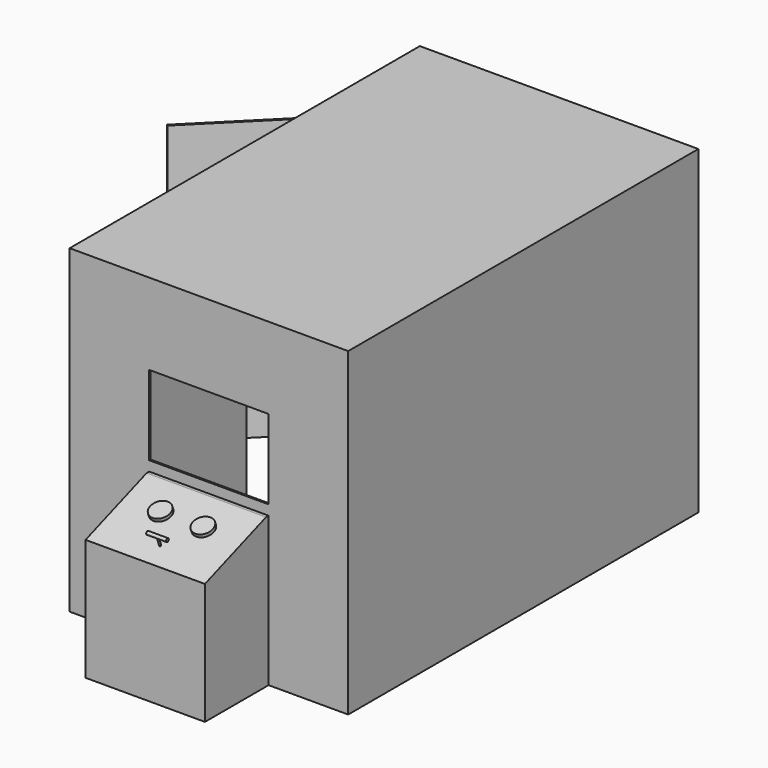
from build123d import *

# Parameters (mm, degrees)
F0_W      = 2133.6
F0_H      = 3352.8
F0_W_2    = 2108.2
F0_H_2    = 3327.4
F1_DEPTH  = 2438.4
F2_W      = 1320.8
F2_H      = 2133.6
F3_DEPTH  = 6.35
F4_W      = 1320.8
F4_H      = 2133.6
F5_DEPTH  = 25.4
F7_DEPTH  = 2133.6
F8_W      = 914.4
F8_H      = 609.6
F9_DEPTH  = 25.4
F10_W     = 914.4
F10_H     = 1143
F11_DEPTH = 609.6
F13_DEPTH = 1524.001
F14_R     = 76.2
F15_DEPTH = 25.4
F16_R     = 6.35
F17_DEPTH = 76.2
F18_W     = 152.4
F18_H     = 12.7
F20_W     = 2133.6
F20_H     = 3352.8
F21_DEPTH = 12.7


with BuildPart() as f1:
    # F0 (on Top) → F1 (new body)
    with BuildSketch(Plane.XY):
        Rectangle(F0_W, F0_H)
        Rectangle(F0_W_2, F0_H_2, mode=Mode.SUBTRACT)
    extrude(amount=F1_DEPTH)

    # F2 (on face) → F3 (join)
    with BuildSketch(Plane(origin=(-1066.8, 0, 0), x_dir=(0, -1, 0), z_dir=(-1, 0, 0))):
        with Locations((660.4, 1066.8)):
            Rectangle(F2_W, F2_H)
    extrude(amount=F3_DEPTH)

    # F4 (on face) → F5 (cut)
    with BuildSketch(Plane(origin=(-1066.8, 0, 0), x_dir=(0, -1, 0), z_dir=(-1, 0, 0))):
        with Locations((-660.4, 1066.8)):
            Rectangle(F4_W, F4_H)
    extrude(amount=-F5_DEPTH, mode=Mode.SUBTRACT)

    # F8 (on face) → F9 (cut)
    with BuildSketch(Plane.XZ.offset(1676.4)):
        with Locations((0, 1524)):
            Rectangle(F8_W, F8_H)
    extrude(amount=-F9_DEPTH, mode=Mode.SUBTRACT)

    # F10 (on face) → F11 (join)
    with BuildSketch(Plane.XZ.offset(1676.4)):
        with Locations((0, 571.5)):
            Rectangle(F10_W, F10_H)
    extrude(amount=F11_DEPTH)

    # F12 (on face) → F13 (cut, through all)
    with BuildSketch(Plane(origin=(-457.2, 0, 0), x_dir=(0, -1, 0), z_dir=(-1, 0, 0))):
        Polygon((2286, 1143), (1701.8, 1143), (2286, 930.3685891417), align=None)
    extrude(amount=-F13_DEPTH, mode=Mode.SUBTRACT)

    # F14 (on face) → F15 (join)
    with BuildSketch(Plane(origin=(0, -566.4259022859, 1556.2423763248), x_dir=(1, 0, 0), z_dir=(0, -0.3420201433, 0.9396926208))):
        with Locations((160.3726652645, -1447.0952749252)):
            Circle(F14_R)
        with Locations((-166.6327175879, -1447.0952749252)):
            Circle(F14_R)
    extrude(amount=F15_DEPTH)

    # F16 (on face) → F17 (join)
    with BuildSketch(Plane(origin=(0, -566.4259022859, 1556.2423763248), x_dir=(1, 0, 0), z_dir=(0, -0.3420201433, 0.9396926208))):
        with Locations((0, -1677.5325329126)):
            Circle(F16_R)
    extrude(amount=F17_DEPTH)

    # F18 (on face) → F19 (revolve)
    with BuildSketch(Plane(origin=(0, -592.4878372073, 1627.8469540287), x_dir=(1, 0, 0), z_dir=(0, -0.3420201433, 0.9396926208))):
        with Locations((0, -1671.1825329126)):
            Rectangle(F18_W, F18_H)
    revolve(axis=Axis((0, -2168.8527795136, 1054.0970366884), (1, 0, 0)))

    # F20 (on face) → F21 (join)
    with BuildSketch(Plane.XY.offset(2438.4)):
        Rectangle(F20_W, F20_H)
    extrude(amount=F21_DEPTH)


with BuildPart() as f7:
    # F6 (on face) → F7 (new body)
    with BuildSketch(Plane(origin=(0, 0, 2133.6), x_dir=(1, 0, 0), z_dir=(0, 0, -1))):
        Polygon((-1075.7802561211, -1329.7802561211), (-1066.8, -1320.8), (-1982.7861243491, -404.8138756509), (-1991.7663804701, -413.794131772), align=None)
    extrude(amount=F7_DEPTH)


solid = Compound([f1.part, f7.part])
